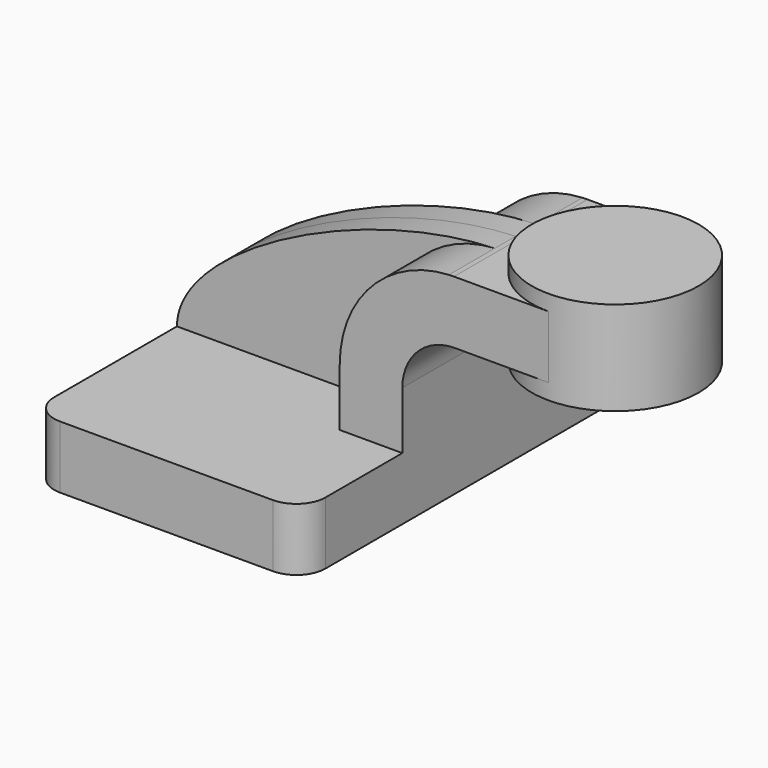
from build123d import *

# Parameters (mm, degrees)
F1_DEPTH = 63.5
F0_W     = 25.4
F0_H     = 19.05
F2_DEPTH = 25.4
F3_DEPTH = 7.9375
F5_R     = 8.89


with BuildPart() as f1:
    # F0 (on Front) → F1 (new body, symmetric)
    with BuildSketch(Plane.XZ):
        Polygon((-41.275, 9.525), (-41.275, -9.525), (41.275, -9.525), (41.275, 9.525), (22.225, 9.525), align=None)
    extrude(amount=F1_DEPTH, both=True)

    # F0 (on Front) → F2 (join, symmetric)
    with BuildSketch(Plane.XZ):
        with Locations((73.025, 52.4002)):
            Rectangle(F0_W, F0_H)
        with BuildLine():
            Line((22.225, 9.525), (41.275, 9.525))
            Line((41.275, 9.525), (41.275, 27.0005395917))
            ThreePointArc((41.275, 27.0005395917), (45.8880281066, 38.1890879368), (57.0461639775, 42.8752))
            Line((57.0461639775, 42.8752), (60.325, 42.8752))
            Line((60.325, 42.8752), (60.325, 61.9252))
            Line((60.325, 61.9252), (56.9959858401, 61.9252))
            add(Edge.make_bspline(
                [(55.4406243802, 61.8836825118), (55.9614433342, 61.9018413626), (56.4799445563, 61.9157023789), (56.9959858401, 61.9252)],
                knots=[109.9747025798, 109.9747025798, 109.9747025798, 109.9747025798, 111.3686114577, 111.3686114577, 111.3686114577, 111.3686114577], degree=3))
            ThreePointArc((55.4406243802, 61.8836825118), (31.8571594268, 51.0843067542), (22.225, 27.0005395917))
            Line((22.225, 27.0005395917), (22.225, 9.525))
        make_face()
    extrude(amount=F2_DEPTH, both=True)

    # F0 (on Front) → F3 (join, symmetric)
    with BuildSketch(Plane.XZ):
        with BuildLine():
            add(Edge.make_bspline(
                [(-41.275, 9.525), (-41.168221459, 32.2657067872), (14.3497679594, 60.4510105174), (55.4406243802, 61.8836825118)],
                knots=[0, 0, 0, 0, 109.9747025798, 109.9747025798, 109.9747025798, 109.9747025798], degree=3))
            Line((-41.275, 9.525), (22.225, 9.525))
            Line((22.225, 9.525), (22.225, 27.0005395917))
            ThreePointArc((22.225, 27.0005395917), (31.8571594268, 51.0843067542), (55.4406243802, 61.8836825118))
        make_face()
    extrude(amount=F3_DEPTH, both=True)

    # F0 (on Front) → F4 (revolve)
    with BuildSketch(Plane.XZ):
        Polygon((85.725, 66.675), (85.725, 61.9252), (85.725, 42.8752), (85.725, 38.1), (111.125, 38.1), (111.125, 66.675), align=None)
    revolve(axis=Axis((85.725, 0, 52.3875), (0, 0, 1)))

    # F5
    f5_edges = [f1.edges().sort_by_distance(p)[0] for p in [
        (-41.275, -63.5, 0),
        (41.275, -63.5, 0),
        (41.275, 63.5, 0),
        (-41.275, 63.5, 0),
    ]]
    fillet(f5_edges, radius=F5_R)


solid = f1.part
